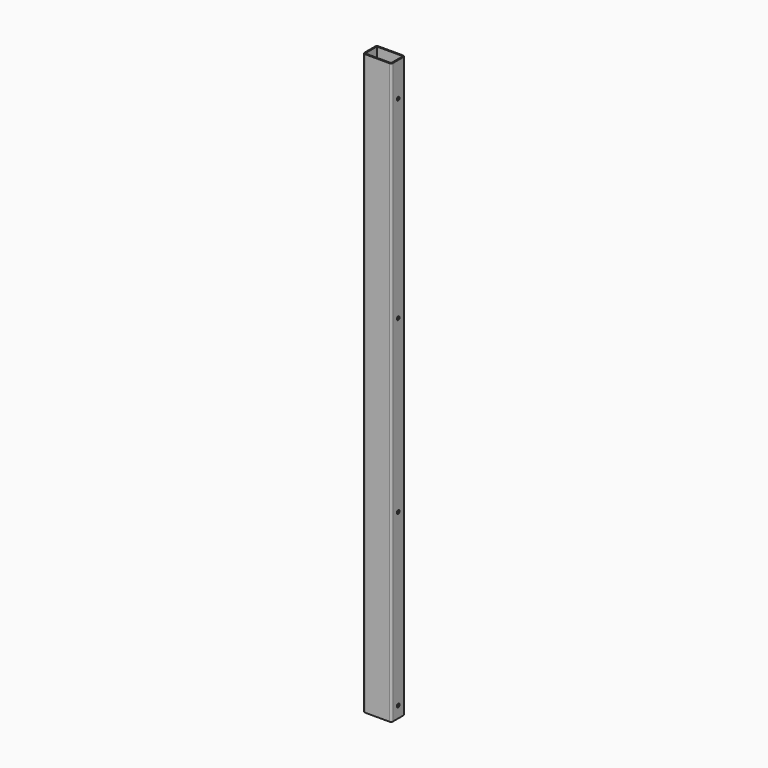
from build123d import *

# Parameters (mm, degrees)
F0_W     = 46
F0_H     = 26
F1_DEPTH = 1020
F3_D     = 6


with BuildPart() as f1:
    # F0 (on Top) → F1 (new body)
    with BuildSketch(Plane.XY):
        with BuildLine():
            ThreePointArc((25, 11.5), (23.974874, 13.974874), (21.5, 15))
            Line((21.5, 15), (-21.5, 15))
            ThreePointArc((-21.5, 15), (-23.974874, 13.974874), (-25, 11.5))
            Line((-25, 11.5), (-25, -11.5))
            ThreePointArc((-25, -11.5), (-23.974874, -13.974874), (-21.5, -15))
            Line((-21.5, -15), (21.5, -15))
            ThreePointArc((21.5, -15), (23.974874, -13.974874), (25, -11.5))
            Line((25, -11.5), (25, 11.5))
        make_face()
        Rectangle(F0_W, F0_H, mode=Mode.SUBTRACT)
    extrude(amount=F1_DEPTH)

    # F3 (through all)
    with Locations(Plane.YZ.offset(25)):
        with Locations((0, 960), (0, 620), (0, 320), (0, 20)):
            Hole(F3_D / 2)


solid = f1.part
